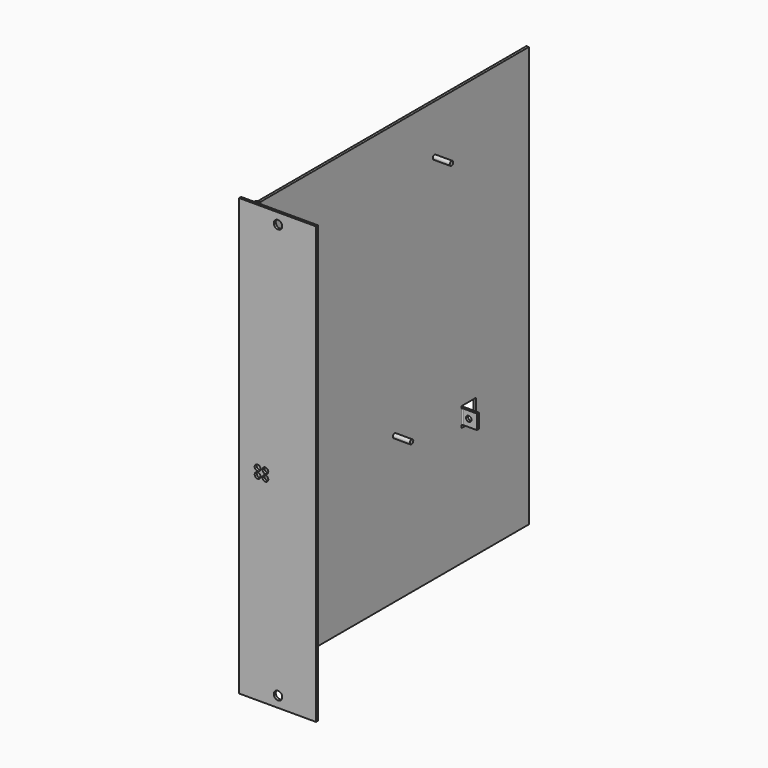
from build123d import *

# Parameters (mm, degrees)
F1_DEPTH  = 285.75
F2_W      = 229.616
F2_H      = 5.08
F3_DEPTH  = 6.35
F4_W      = 229.616
F4_H      = 5.334
F5_DEPTH  = 6.35
F6_R      = 1.4224
F7_DEPTH  = 11.1125
F8_W      = 12.192
F8_H      = 12.7254
F9_DEPTH  = 25.4
F12_DEPTH = 9.525
F13_R     = 1.778
F14_DEPTH = 1.6002
F15_R     = 1.905
F16_DEPTH = 1.6002
F17_R     = 2.7813
F18_DEPTH = 1.6002


with BuildPart() as f1:
    # F0 (on Top) → F1 (new body)
    with BuildSketch(Plane.XY):
        Polygon((0, 1.6002), (0, 0), (50.292, 0), (50.292, 1.6002), (1.602396, 1.6002), (1.872637, 6.756705), (4.7498, 11.379061), (4.7498, 231.2162), (3.1496, 231.2162), (3.1496, 11.8364), (0.296211, 7.252239), align=None)
    extrude(amount=F1_DEPTH)

    # F2 (on Right) → F3 (cut)
    with BuildSketch(Plane.YZ):
        with Locations((116.4082, 2.54)):
            Rectangle(F2_W, F2_H)
    extrude(amount=F3_DEPTH, mode=Mode.SUBTRACT)

    # F4 (on Right) → F5 (cut)
    with BuildSketch(Plane.YZ):
        with Locations((116.4082, 283.083)):
            Rectangle(F4_W, F4_H)
    extrude(amount=F5_DEPTH, mode=Mode.SUBTRACT)

    # F6 (on face) → F7 (join)
    with BuildSketch(Plane.YZ.offset(4.7498)):
        with Locations((154.0002, 248.285)):
            Circle(F6_R)
        with Locations((19.1262, 249.555)):
            Circle(F6_R)
        with Locations((121.285, 100.965)):
            Circle(F6_R)
        with Locations((20.4216, 90.1446)):
            Circle(F6_R)
        with Locations((41.275, 100.965)):
            Circle(F6_R)
        with Locations((20.4216, 19.1516)):
            Circle(F6_R)
    extrude(amount=F7_DEPTH)

    # F8 (on face) → F9 (cut)
    with BuildSketch(Plane.YZ.offset(4.7498)):
        with Locations((182.0291, 89.3699)):
            Rectangle(F8_W, F8_H)
    extrude(amount=-F9_DEPTH, mode=Mode.SUBTRACT)

    # F11 (on offset) → F12 (join)
    with BuildSketch(Plane.XY.offset(84.7344)):
        with BuildLine():
            Line((14.2748, 176.7332), (14.2748, 178.3334))
            Line((14.2748, 178.3334), (4.7498, 178.3334))
            ThreePointArc((4.7498, 178.3334), (3.618288, 177.864712), (3.1496, 176.7332))
            Line((3.1496, 176.7332), (3.1496, 175.9331))
            Line((3.1496, 175.9331), (4.7498, 175.9331))
            ThreePointArc((4.7498, 175.9331), (4.984144, 176.498856), (5.5499, 176.7332))
            Line((5.5499, 176.7332), (14.2748, 176.7332))
        make_face()
    extrude(amount=F12_DEPTH)

    # F13 (on face) → F14 (cut, through all)
    with BuildSketch(Plane(origin=(0, 178.3334, 0), x_dir=(-1, 0, 0), z_dir=(0, 1, 0))):
        with Locations((-8.9916, 89.5096)):
            Circle(F13_R)
    extrude(amount=-F14_DEPTH, mode=Mode.SUBTRACT)

    # F15 (on face) → F16 (cut, through all)
    with BuildSketch(Plane.XZ):
        with Locations((12.065, 134.112)):
            Circle(F15_R)
        with Locations((17.145, 134.112)):
            Circle(F15_R)
        with Locations((12.065, 129.667)):
            Circle(F15_R)
        with Locations((17.145, 129.667)):
            Circle(F15_R)
    extrude(amount=-F16_DEPTH, mode=Mode.SUBTRACT)

    # F17 (on face) → F18 (cut, through all)
    with BuildSketch(Plane.XZ):
        with Locations((25.4254, 7.112)):
            Circle(F17_R)
        with Locations((25.4254, 278.638)):
            Circle(F17_R)
    extrude(amount=-F18_DEPTH, mode=Mode.SUBTRACT)


solid = f1.part
